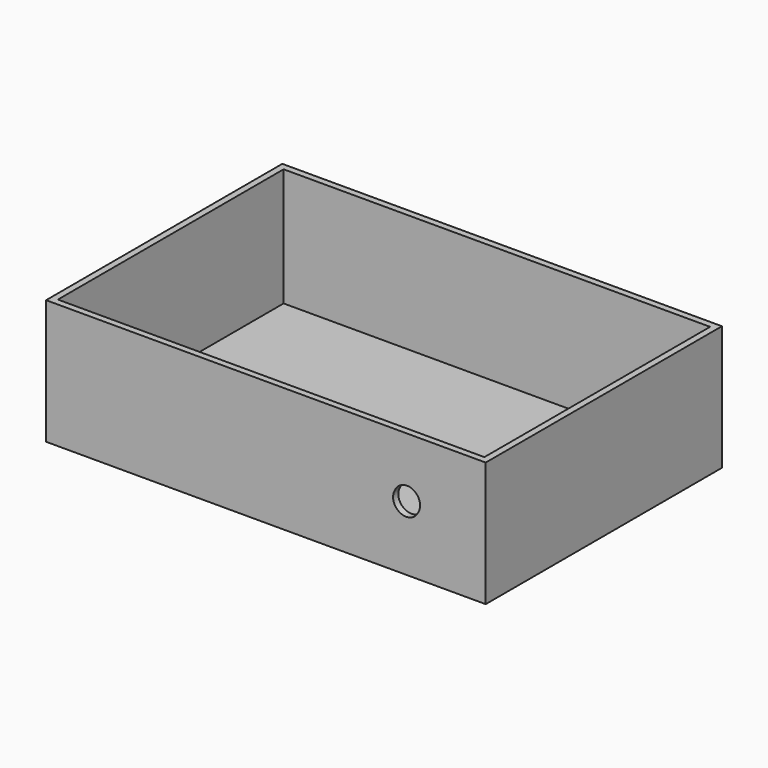
from build123d import *

# Parameters (mm, degrees)
SKETCH_W        = 134
SKETCH_H        = 90
PAD_DEPTH       = 38
SKETCH001_W     = 130
SKETCH001_H     = 86
POCKET_DEPTH    = 36
SKETCH003_R     = 4
POCKET001_DEPTH = 5
SKETCH004_R     = 4
POCKET002_DEPTH = 5


with BuildPart() as part:
    # Sketch → Pad (new body)
    with BuildSketch(Plane.XY):
        with Locations((77, 55)):
            Rectangle(SKETCH_W, SKETCH_H)
    extrude(amount=PAD_DEPTH)

    # Sketch001 (on Face6 of Pad) → Pocket (cut)
    with BuildSketch(Plane.XY.offset(38)):
        with Locations((77, 55)):
            Rectangle(SKETCH001_W, SKETCH001_H)
    extrude(amount=-POCKET_DEPTH, mode=Mode.SUBTRACT)

    # Sketch003 (on Face1 of Pocket) → Pocket001 (cut)
    with BuildSketch(Plane.XZ.offset(-10)):
        with Locations((119.765617, 19.578506)):
            Circle(SKETCH003_R)
    extrude(amount=-POCKET001_DEPTH, mode=Mode.SUBTRACT)

    # Sketch004 (on Face1 of Pad) → Pocket002 (cut)
    with BuildSketch(Plane.XZ.offset(-10)):
        with Locations((120, 20)):
            Circle(SKETCH004_R)
    extrude(amount=-POCKET002_DEPTH, mode=Mode.SUBTRACT)


solid = part.part
